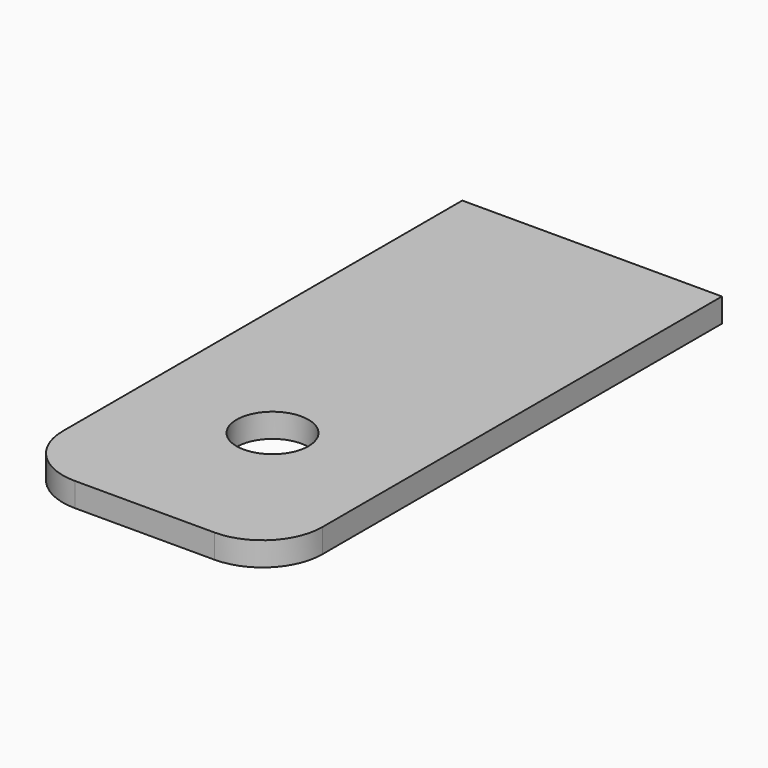
from build123d import *

# Parameters (mm, degrees)
F0_R     = 9
F1_DEPTH = 6


with BuildPart() as f1:
    # F0 (on Top) → F1 (new body)
    with BuildSketch(Plane.XY):
        with BuildLine():
            Line((0, 87.303374), (-65, 87.303374))
            Line((-65, 87.303374), (-65, -37.696626))
            ThreePointArc((-65, -37.696626), (-60.606602, -48.303228), (-50, -52.696626))
            Line((-50, -52.696626), (-15, -52.696626))
            ThreePointArc((-15, -52.696626), (-4.393398, -48.303228), (0, -37.696626))
            Line((0, -37.696626), (0, 87.303374))
        make_face()
        with Locations((-32.5, -12.696626)):
            Circle(F0_R, mode=Mode.SUBTRACT)
    extrude(amount=F1_DEPTH)


solid = f1.part
